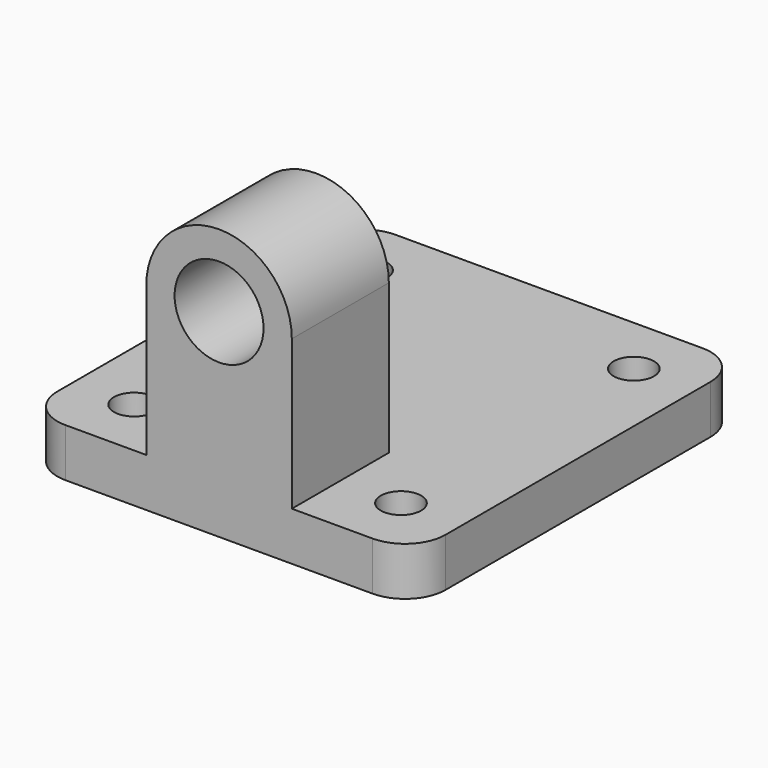
from build123d import *

# Parameters (mm, degrees)
F0_W     = 48
F0_H     = 51
F1_DEPTH = 6
F2_R     = 5
F3_D     = 5
F4_R     = 5.5
F5_DEPTH = 15


with BuildPart() as f1:
    # F0 (on Top) → F1 (new body)
    with BuildSketch(Plane.XY):
        with Locations((0, 17.75)):
            Rectangle(F0_W, F0_H)
    extrude(amount=-F1_DEPTH)

    # F2
    f2_edges = [f1.edges().sort_by_distance(p)[0] for p in [
        (24, -7.75, -3),
        (24, 43.25, -3),
        (-24, 43.25, -3),
        (-24, -7.75, -3),
    ]]
    fillet(f2_edges, radius=F2_R)

    # F3 (through all)
    with Locations(Plane.XY):
        with Locations((16.5, -0.25), (-16.5, -0.25), (16.5, 35.75), (-16.5, 35.75)):
            Hole(F3_D / 2)

    # F4 (on face) → F5 (join)
    with BuildSketch(Plane.XZ.offset(7.75)):
        with BuildLine():
            Line((9, 0), (9, 18.5))
            ThreePointArc((9, 18.5), (0, 27.5), (-9, 18.5))
            Line((-9, 18.5), (-9, 0))
            Line((-9, 0), (9, 0))
        make_face()
        with Locations((0, 18.5)):
            Circle(F4_R, mode=Mode.SUBTRACT)
    extrude(amount=-F5_DEPTH)


solid = f1.part
